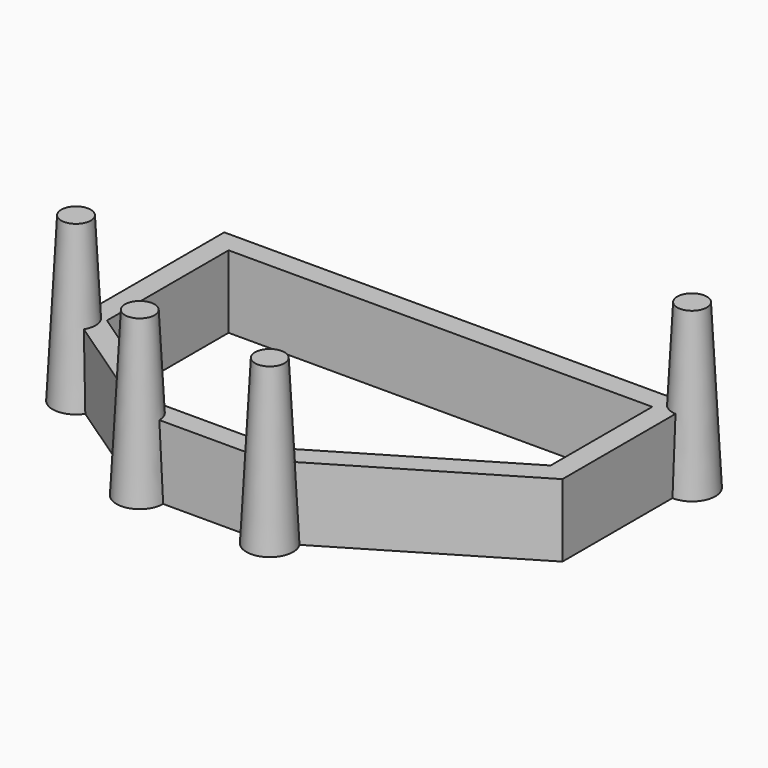
from build123d import *

# Parameters (mm, degrees)
F1_DEPTH = 21.336
F2_R     = 6.8636528609
F3_DEPTH = 48.006
F3_TAPER = 3


with BuildPart() as f1:
    # F0 (on Top) → F1 (new body)
    with BuildSketch(Plane.XY):
        Polygon((96.2734487839, 82.116805017), (-40.8865512161, 82.116805017), (-40.8865512161, 27.7571524011), (0, 0), (37.7825030637, 0), (96.2734487839, 34.8460475412), align=None)
        Polygon((89.9234488606, 75.7668050937), (89.9234488606, 38.4544916451), (36.0343505215, 6.3499999233), (1.9518097804, 6.3499999233), (-34.5365512928, 31.1212992638), (-34.5365512928, 75.7668050937), align=None, mode=Mode.SUBTRACT)
    extrude(amount=F1_DEPTH)

    # F2 (on Top) → F3 (join)
    with BuildSketch(Plane.XY):
        Circle(F2_R)
        with Locations((38.1801947951, 0)):
            Circle(F2_R)
        with Locations((96.5343341231, 82.1052864194)):
            Circle(F2_R)
        with Locations((-40.7790951431, 27.5509990752)):
            Circle(F2_R)
    extrude(amount=F3_DEPTH, taper=F3_TAPER)


solid = f1.part
